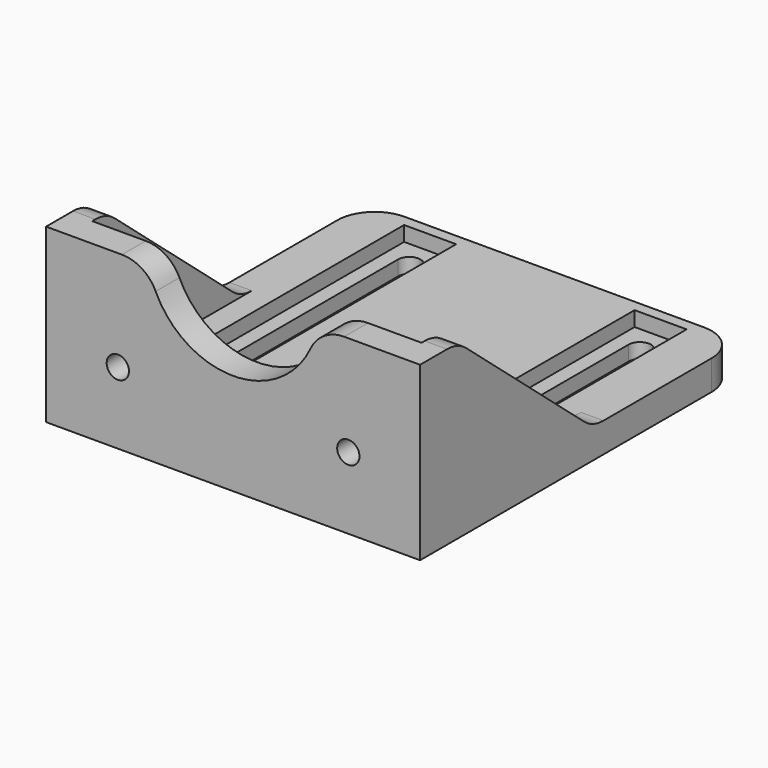
from build123d import *

# Parameters (mm, degrees)
F0_W      = 50.3
F0_H      = 46.3
F0_R      = 1.5
F0_R_2    = 11.5
F1_DEPTH  = 4
F2_W      = 50.3
F2_H      = 4
F3_DEPTH  = 50
F5_DEPTH  = 3
F7_DEPTH  = 3
F9_DEPTH  = 4.001
F10_W     = 7
F10_H     = 47
F11_DEPTH = 2
F12_W     = 50.3
F12_H     = 23.15
F13_DEPTH = 54.001
F14_R     = 5


with BuildPart() as f1:
    # F0 (on Front) → F1 (new body)
    with BuildSketch(Plane.XZ):
        with Locations((0, 19.15)):
            Rectangle(F0_W, F0_H)
        with Locations((-15.5, 5.65)):
            Circle(F0_R, mode=Mode.SUBTRACT)
        with Locations((15.5, 5.65)):
            Circle(F0_R, mode=Mode.SUBTRACT)
        with Locations((-15.5, 36.65)):
            Circle(F0_R, mode=Mode.SUBTRACT)
        with Locations((0, 21.15)):
            Circle(F0_R_2, mode=Mode.SUBTRACT)
        with Locations((15.5, 36.65)):
            Circle(F0_R, mode=Mode.SUBTRACT)
    extrude(amount=F1_DEPTH)

    # F2 (on face) → F3 (join)
    with BuildSketch(Plane(origin=(0, 0, 0), x_dir=(-1, 0, 0), z_dir=(0, 1, 0))):
        with Locations((0, -2)):
            Rectangle(F2_W, F2_H)
    extrude(amount=F3_DEPTH)

    # F4 (on face) → F5 (join)
    with BuildSketch(Plane.YZ.offset(25.15)):
        Polygon((25, 0), (0, 21.15), (0, 0), align=None)
    extrude(amount=-F5_DEPTH)

    # F6 (on face) → F7 (join)
    with BuildSketch(Plane(origin=(-25.15, 0, 0), x_dir=(0, -1, 0), z_dir=(-1, 0, 0))):
        Polygon((0, 0), (0, 21.15), (-25, 0), align=None)
    extrude(amount=-F7_DEPTH)

    # F8 (on face) → F9 (cut, through all)
    with BuildSketch(Plane.XY):
        with BuildLine():
            Line((-14, 5), (-14, 45))
            ThreePointArc((-14, 45), (-15.5, 46.5), (-17, 45))
            Line((-17, 45), (-17, 5))
            ThreePointArc((-17, 5), (-15.5, 3.5), (-14, 5))
        make_face()
        with BuildLine():
            ThreePointArc((17, 45), (15.5, 46.5), (14, 45))
            Line((14, 45), (14, 5))
            ThreePointArc((14, 5), (15.5, 3.5), (17, 5))
            Line((17, 5), (17, 45))
        make_face()
    extrude(amount=-F9_DEPTH, mode=Mode.SUBTRACT)

    # F10 (on face) → F11 (cut)
    with BuildSketch(Plane.XY):
        with Locations((-15.5, 25)):
            Rectangle(F10_W, F10_H)
        with Locations((15.5, 25)):
            Rectangle(F10_W, F10_H)
    extrude(amount=-F11_DEPTH, mode=Mode.SUBTRACT)

    # F12 (on face) → F13 (cut, through all)
    with BuildSketch(Plane.XZ.offset(4)):
        with Locations((0, 30.725)):
            Rectangle(F12_W, F12_H)
    extrude(amount=-F13_DEPTH, mode=Mode.SUBTRACT)

    # F14
    f14_edges = [f1.edges().sort_by_distance(p)[0] for p in [
        (23.65, 2.364066, 19.15),
        (-23.65, 2.364066, 19.15),
        (11.324752, -2, 19.15),
        (-11.324752, -2, 19.15),
        (23.65, 25, 0),
        (-23.65, 25, 0),
        (25.15, 50, -2),
        (-25.15, 50, -2),
    ]]
    fillet(f14_edges, radius=F14_R)


solid = f1.part
